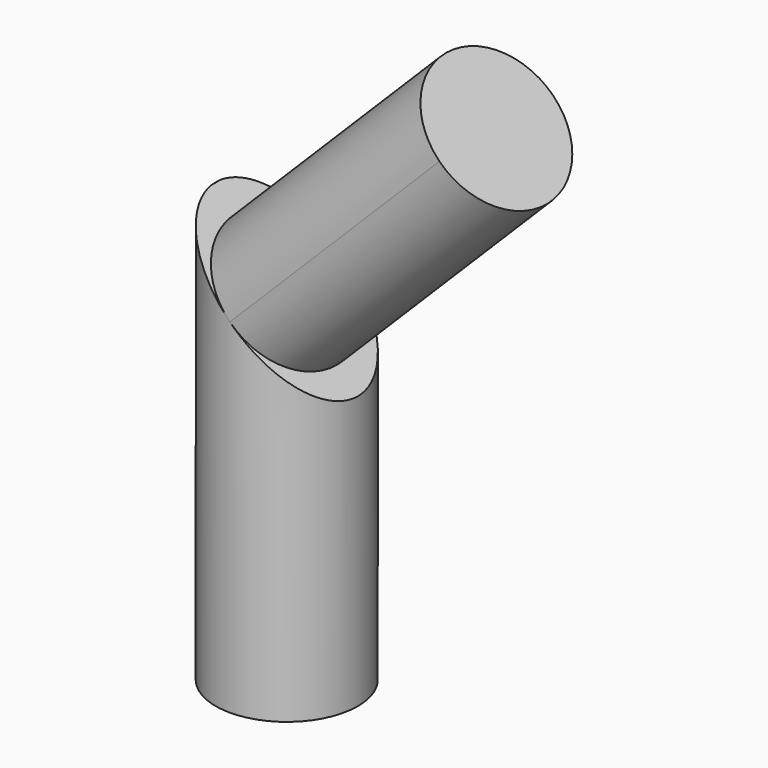
from build123d import *

# Parameters (mm, degrees)
F0_R     = 6
F1_DEPTH = 35
F3_DEPTH = 12.5
F5_DEPTH = 25


with BuildPart() as f1:
    # F0 (on Top) → F1 (new body)
    with BuildSketch(Plane.XY):
        Circle(F0_R)
    extrude(amount=F1_DEPTH)

    # F2 (on Front) → F3 (cut, symmetric)
    with BuildSketch(Plane.XZ):
        Polygon((6.1246007681, 35.0653016331), (-6.0470434837, 35.0653016331), (6.1246007681, 22.8936616331), align=None)
    extrude(amount=F3_DEPTH, both=True, mode=Mode.SUBTRACT)

    # F4 (on face) → F5 (join)
    with BuildSketch(Plane(origin=(14.5091301309, 0, 14.5091351992), x_dir=(0.7071069047, 0, -0.7071066577), z_dir=(0.7071066577, 0, 0.7071069047))):
        with BuildLine():
            ThreePointArc((-20.519004735, -6), (-16.2763642357, -4.2426405844), (-14.5190050255, 0))
            ThreePointArc((-14.5190050255, 0), (-16.2763643803, 4.242640729), (-20.519005144, 6))
            ThreePointArc((-20.519005144, 6), (-26.5190050255, -2.045e-07), (-20.519004735, -6))
        make_face()
    extrude(amount=F5_DEPTH)


solid = f1.part
